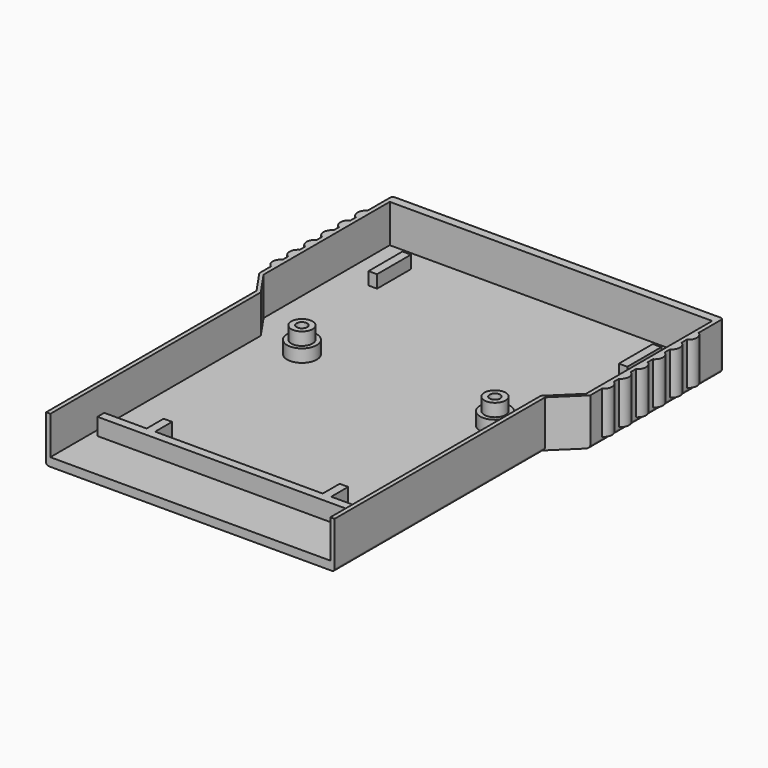
from build123d import *

# Parameters (mm, degrees)
CONE001_PLACEMENT_ANGLE = 1
CYLINDER001_R           = 1.25
CYLINDER001_DEPTH       = 16
CYLINDER002_R           = 1.25
CYLINDER002_DEPTH       = 20
BOX003_W                = 5
BOX003_H                = 35
BOX003_DEPTH            = 12
BOX002_W                = 5
BOX002_H                = 35
BOX002_DEPTH            = 12
CYLINDER013_R           = 2
CYLINDER013_DEPTH       = 10
CYLINDER014_R           = 2
CYLINDER014_DEPTH       = 10
CYLINDER015_R           = 2
CYLINDER015_DEPTH       = 10
CYLINDER016_R           = 2
CYLINDER016_DEPTH       = 10
CYLINDER017_R           = 2
CYLINDER017_DEPTH       = 10
CYLINDER012_R           = 2
CYLINDER012_DEPTH       = 10
CYLINDER007_R           = 2
CYLINDER007_DEPTH       = 10
CYLINDER008_R           = 2
CYLINDER008_DEPTH       = 10
CYLINDER009_R           = 2
CYLINDER009_DEPTH       = 10
CYLINDER010_R           = 2
CYLINDER010_DEPTH       = 10
CYLINDER011_R           = 2
CYLINDER011_DEPTH       = 10
CYLINDER006_R           = 2
CYLINDER006_DEPTH       = 10
PAD013_DEPTH            = 5
BOX_W                   = 2
BOX_H                   = 10
BOX_DEPTH               = 4
CYLINDER004_R           = 2.5
CYLINDER004_DEPTH       = 4
BOX001_W                = 2
BOX001_H                = 10
BOX001_DEPTH            = 4
CYLINDER003_R           = 3.5
CYLINDER003_DEPTH       = 4
CYLINDER005_R           = 2.5
CYLINDER005_DEPTH       = 3
CYLINDER_R              = 3.5
CYLINDER_DEPTH          = 4
PAD015_DEPTH            = 10
PAD_DEPTH               = 11
PAD014_DEPTH            = 10
FILLET_R                = 0.6
FILLET001_R             = 0.6
FILLET002_R             = 0.6
FILLET003_R             = 0.6
FILLET004_R             = 0.6


with BuildPart() as cono:
    # Cone → Cone (revolve)
    with BuildSketch(Plane(origin=(-11, 61, -2), x_dir=(-1, 0, 0), z_dir=(0, 1, 0))):
        Polygon((0, 0), (3, 0), (0, 5), align=None)
    revolve(axis=Axis((-11, 61, -2), (0, 0, 1)))


with BuildPart() as cono001:
    # Cone001 → Cone001 (revolve)
    with BuildSketch(Plane.XZ):
        Polygon((0, 0), (3, 0), (0, 5), align=None)
    revolve(axis=Axis((0, 0, 0), (0, 0, 1)))


with BuildPart() as cono001_1:
    # Cone001 placement: moved
    add(cono001.part.moved(Location((-56.7, 61.2, -2))).rotate(Axis((-56.7, 61.2, -2), (0, 0, 1)), CONE001_PLACEMENT_ANGLE))


with BuildPart() as cilindro:
    # Cylinder001 → Cylinder001 (new body)
    with BuildSketch(Plane(origin=(-11, 61, -2), x_dir=(1, 0, 0), z_dir=(0, 0, 1))):
        Circle(CYLINDER001_R)
    extrude(amount=CYLINDER001_DEPTH)


with BuildPart() as cilindro001:
    # Cylinder002 → Cylinder002 (new body)
    with BuildSketch(Plane(origin=(-56.5, 61, -2), x_dir=(1, 0, 0), z_dir=(0, 0, 1))):
        Circle(CYLINDER002_R)
    extrude(amount=CYLINDER002_DEPTH)


with BuildPart() as cubo003:
    # Box003 → Box003 (new body)
    with BuildSketch(Plane(origin=(-71, 69, 2), x_dir=(1, 0, 0), z_dir=(0, 0, 1))):
        with Locations((2.5, 17.5)):
            Rectangle(BOX003_W, BOX003_H)
    extrude(amount=BOX003_DEPTH)


with BuildPart() as cubo002:
    # Box002 → Box002 (new body)
    with BuildSketch(Plane(origin=(0, 69, 2), x_dir=(1, 0, 0), z_dir=(0, 0, 1))):
        with Locations((2.5, 17.5)):
            Rectangle(BOX002_W, BOX002_H)
    extrude(amount=BOX002_DEPTH)


with BuildPart() as cilindro013:
    # Cylinder013 → Cylinder013 (new body)
    with BuildSketch(Plane(origin=(5, 73, 1), x_dir=(1, 0, 0), z_dir=(0, 0, 1))):
        Circle(CYLINDER013_R)
    extrude(amount=CYLINDER013_DEPTH)


with BuildPart() as cilindro014:
    # Cylinder014 → Cylinder014 (new body)
    with BuildSketch(Plane(origin=(5, 83, 1), x_dir=(1, 0, 0), z_dir=(0, 0, 1))):
        Circle(CYLINDER014_R)
    extrude(amount=CYLINDER014_DEPTH)


with BuildPart() as cilindro015:
    # Cylinder015 → Cylinder015 (new body)
    with BuildSketch(Plane(origin=(5, 88, 1), x_dir=(1, 0, 0), z_dir=(0, 0, 1))):
        Circle(CYLINDER015_R)
    extrude(amount=CYLINDER015_DEPTH)


with BuildPart() as cilindro016:
    # Cylinder016 → Cylinder016 (new body)
    with BuildSketch(Plane(origin=(5, 93, 1), x_dir=(1, 0, 0), z_dir=(0, 0, 1))):
        Circle(CYLINDER016_R)
    extrude(amount=CYLINDER016_DEPTH)


with BuildPart() as cilindro017:
    # Cylinder017 → Cylinder017 (new body)
    with BuildSketch(Plane(origin=(5, 98, 1), x_dir=(1, 0, 0), z_dir=(0, 0, 1))):
        Circle(CYLINDER017_R)
    extrude(amount=CYLINDER017_DEPTH)


with BuildPart() as obj1:
    # Cylinder012 → Cylinder012 (new body)
    with BuildSketch(Plane(origin=(5, 78, 1), x_dir=(1, 0, 0), z_dir=(0, 0, 1))):
        Circle(CYLINDER012_R)
    extrude(amount=CYLINDER012_DEPTH)

    # Fusion010: union Cilindro013, Cilindro014, Cilindro015, Cilindro016, Cilindro017
    add(cilindro013.part)
    add(cilindro014.part)
    add(cilindro015.part)
    add(cilindro016.part)
    add(cilindro017.part)


with BuildPart() as obj1_1:
    # Fusion010 placement: moved
    add(obj1.part.moved(Location((-76, 0, 0))))


with BuildPart() as cilindro007:
    # Cylinder007 → Cylinder007 (new body)
    with BuildSketch(Plane(origin=(5, 73, 1), x_dir=(1, 0, 0), z_dir=(0, 0, 1))):
        Circle(CYLINDER007_R)
    extrude(amount=CYLINDER007_DEPTH)


with BuildPart() as cilindro008:
    # Cylinder008 → Cylinder008 (new body)
    with BuildSketch(Plane(origin=(5, 83, 1), x_dir=(1, 0, 0), z_dir=(0, 0, 1))):
        Circle(CYLINDER008_R)
    extrude(amount=CYLINDER008_DEPTH)


with BuildPart() as cilindro009:
    # Cylinder009 → Cylinder009 (new body)
    with BuildSketch(Plane(origin=(5, 88, 1), x_dir=(1, 0, 0), z_dir=(0, 0, 1))):
        Circle(CYLINDER009_R)
    extrude(amount=CYLINDER009_DEPTH)


with BuildPart() as cilindro010:
    # Cylinder010 → Cylinder010 (new body)
    with BuildSketch(Plane(origin=(5, 93, 1), x_dir=(1, 0, 0), z_dir=(0, 0, 1))):
        Circle(CYLINDER010_R)
    extrude(amount=CYLINDER010_DEPTH)


with BuildPart() as cilindro011:
    # Cylinder011 → Cylinder011 (new body)
    with BuildSketch(Plane(origin=(5, 98, 1), x_dir=(1, 0, 0), z_dir=(0, 0, 1))):
        Circle(CYLINDER011_R)
    extrude(amount=CYLINDER011_DEPTH)


with BuildPart() as cut:
    # Cylinder006 → Cylinder006 (new body)
    with BuildSketch(Plane(origin=(5, 78, 1), x_dir=(1, 0, 0), z_dir=(0, 0, 1))):
        Circle(CYLINDER006_R)
    extrude(amount=CYLINDER006_DEPTH)

    # Fusion009: union Cilindro007, Cilindro008, Cilindro009, Cilindro010, Cilindro011
    add(cilindro007.part)
    add(cilindro008.part)
    add(cilindro009.part)
    add(cilindro010.part)
    add(cilindro011.part)

    # Fusion011: union obj1
    add(obj1_1.part)

    # Cut014: cut Cubo002
    add(cubo002.part, mode=Mode.SUBTRACT)

    # Cut: cut Cubo003
    add(cubo003.part, mode=Mode.SUBTRACT)


with BuildPart() as front_bar:
    # Sketch004 → Pad013 (new body)
    with BuildSketch(Plane.XY.offset(1)):
        Polygon((-65.5, 12), (-2, 12), (-2, 14), (-12, 14), (-12, 19), (-14, 19), (-14, 14), (-53.5, 14), (-53.5, 19), (-55.5, 19), (-55.5, 14), (-65.5, 14), align=None)
    extrude(amount=PAD013_DEPTH)


with BuildPart() as cubo:
    # Box → Box (new body)
    with BuildSketch(Plane(origin=(-5, 90, 1), x_dir=(1, 0, 0), z_dir=(0, 0, 1))):
        with Locations((1, 5)):
            Rectangle(BOX_W, BOX_H)
    extrude(amount=BOX_DEPTH)


with BuildPart() as cilindro003:
    # Cylinder004 → Cylinder004 (new body)
    with BuildSketch(Plane(origin=(-11, 61, 4), x_dir=(1, 0, 0), z_dir=(0, 0, 1))):
        Circle(CYLINDER004_R)
    extrude(amount=CYLINDER004_DEPTH)


with BuildPart() as cubo001:
    # Box001 → Box001 (new body)
    with BuildSketch(Plane(origin=(-64, 90, 1), x_dir=(1, 0, 0), z_dir=(0, 0, 1))):
        with Locations((1, 5)):
            Rectangle(BOX001_W, BOX001_H)
    extrude(amount=BOX001_DEPTH)


with BuildPart() as fusion004:
    # Cylinder003 → Cylinder003 (new body)
    with BuildSketch(Plane(origin=(-11, 61, 1), x_dir=(1, 0, 0), z_dir=(0, 0, 1))):
        Circle(CYLINDER003_R)
    extrude(amount=CYLINDER003_DEPTH)

    # Fusion003: union Cubo001
    add(cubo001.part)

    # Fusion004: union Cilindro003
    add(cilindro003.part)


with BuildPart() as cilindro005:
    # Cylinder005 → Cylinder005 (new body)
    with BuildSketch(Plane(origin=(-56.5, 61, 5), x_dir=(1, 0, 0), z_dir=(0, 0, 1))):
        Circle(CYLINDER005_R)
    extrude(amount=CYLINDER005_DEPTH)


with BuildPart() as cilindro004:
    # Cylinder → Cylinder (new body)
    with BuildSketch(Plane(origin=(-56.5, 61, 1), x_dir=(1, 0, 0), z_dir=(0, 0, 1))):
        Circle(CYLINDER_R)
    extrude(amount=CYLINDER_DEPTH)


with BuildPart() as base:
    # Sketch005 → Pad015 (new body)
    with BuildSketch(Plane(origin=(-1, 0, 2), x_dir=(1, 0, 0), z_dir=(0, 0, 1))):
        Polygon((0, 0), (-66, 0), (-66, 62), (-70, 67.82), (-70, 105), (6, 105), (6, 67.82), (0, 62), align=None)
    extrude(amount=PAD015_DEPTH)


with BuildPart() as bot_final:
    # Pad base: copy of front_bar
    add(front_bar.part)

    # Sketch → Pad (new body)
    with BuildSketch(Plane.XY):
        Polygon((0, 0), (-68, 0), (-68, 62), (-72, 67.82), (-72, 107), (6, 107), (6, 67.82), (0, 62), align=None)
    extrude(amount=PAD_DEPTH)

    # Sketch005 → Pad014 (new body)
    with BuildSketch(Plane(origin=(-1, 0, 2), x_dir=(1, 0, 0), z_dir=(0, 0, 1))):
        Polygon((0, 0), (-66, 0), (-66, 62), (-70, 67.82), (-70, 105), (6, 105), (6, 67.82), (0, 62), align=None)
    extrude(amount=PAD014_DEPTH)

    # Cut013: cut Base
    add(base.part, mode=Mode.SUBTRACT)

    # Fusion: union Cilindro004
    add(cilindro004.part)

    # Fusion012: union Cilindro005
    add(cilindro005.part)

    # Fusion013: union Fusion004
    add(fusion004.part)

    # Fusion014: union Cubo
    add(cubo.part)

    # Fusion015: union front_bar
    add(front_bar.part)

    # Fusion016: union Cut
    add(cut.part)

    # Cut016: cut Cilindro001
    add(cilindro001.part, mode=Mode.SUBTRACT)

    # Cut017: cut Cilindro
    add(cilindro.part, mode=Mode.SUBTRACT)

    # Cut018: cut Cono001
    add(cono001_1.part, mode=Mode.SUBTRACT)

    # Cut019: cut Cono
    add(cono.part, mode=Mode.SUBTRACT)

    # Fillet
    fillet_edges = [bot_final.edges().sort_by_distance(p)[0] for p in [
        (-68, 31, 0),
    ]]
    fillet(fillet_edges, radius=FILLET_R)

    # Fillet001
    fillet001_edges = [bot_final.edges().sort_by_distance(p)[0] for p in [
        (0, 31, 0),
    ]]
    fillet(fillet001_edges, radius=FILLET001_R)

    # Fillet002
    fillet002_edges = [bot_final.edges().sort_by_distance(p)[0] for p in [
        (-72, 87.41, 0),
    ]]
    fillet(fillet002_edges, radius=FILLET002_R)

    # Fillet003
    fillet003_edges = [bot_final.edges().sort_by_distance(p)[0] for p in [
        (6, 87.41, 0),
    ]]
    fillet(fillet003_edges, radius=FILLET003_R)

    # Fillet004
    fillet004_edges = [bot_final.edges().sort_by_distance(p)[0] for p in [
        (-33, 107, 0),
    ]]
    fillet(fillet004_edges, radius=FILLET004_R)


solid = bot_final.part
